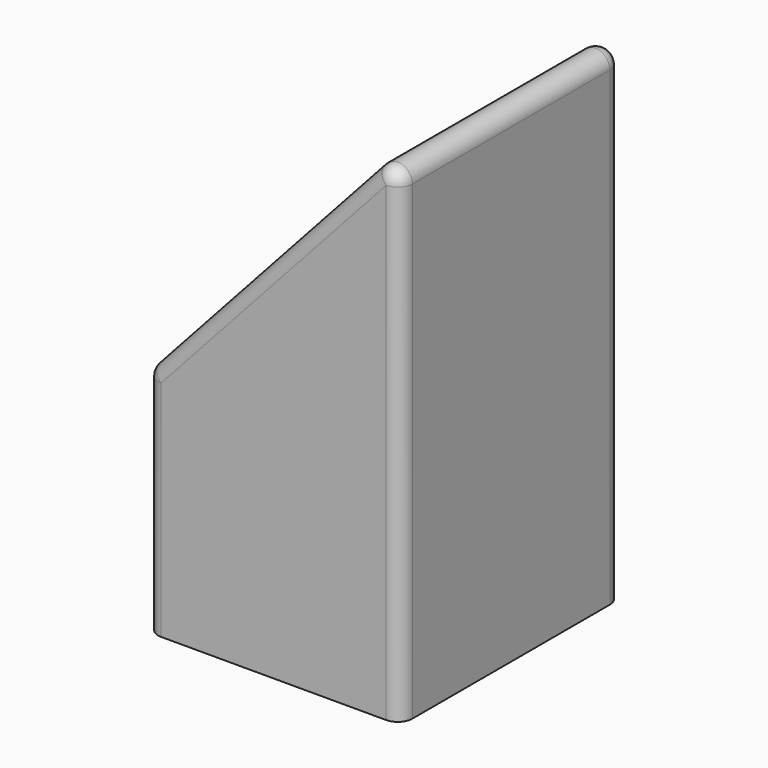
from build123d import *

# Parameters (mm, degrees)
F1_DEPTH = 38
F3_W     = 25
F3_H     = 2.5
F4_DEPTH = 45
F3_W_2   = 11.1
F3_H_2   = 2.2
F5_DEPTH = 30.5
F6_R     = 2


with BuildPart() as f1:
    # F0 (on Front) → F1 (new body)
    with BuildSketch(Plane.XZ):
        Polygon((0, -31.542231), (0, 38.457769), (-35, 0), (-35, -31.542231), align=None)
    extrude(amount=F1_DEPTH)

    # F3 (on offset) → F4 (cut)
    with BuildSketch(Plane.XY.offset(39)):
        with Locations((-18.802461, -31.75)):
            Rectangle(F3_W, F3_H)
        with Locations((-18.802461, -24.25)):
            Rectangle(F3_W, F3_H)
    extrude(amount=-F4_DEPTH, mode=Mode.SUBTRACT)

    # F3 (on offset) → F5 (cut)
    with BuildSketch(Plane.XY.offset(39)):
        with Locations((-18.576984, -11.7)):
            Rectangle(F3_W_2, F3_H_2)
        with Locations((-18.576984, -17.9)):
            Rectangle(F3_W_2, F3_H_2)
        with Locations((-18.576984, -5.5)):
            Rectangle(F3_W_2, F3_H_2)
    extrude(amount=-F5_DEPTH, mode=Mode.SUBTRACT)

    # F6
    f6_edges = [f1.edges().sort_by_distance(p)[0] for p in [
        (-17.5, 0, 19.228885),
        (-35, -19, 0),
        (-17.5, -38, 19.228885),
        (0, -19, 38.457769),
        (0, 0, 3.457769),
        (0, -38, 3.457769),
        (-35, 0, -15.771115),
        (-35, -38, -15.771115),
    ]]
    fillet(f6_edges, radius=F6_R)


solid = f1.part
